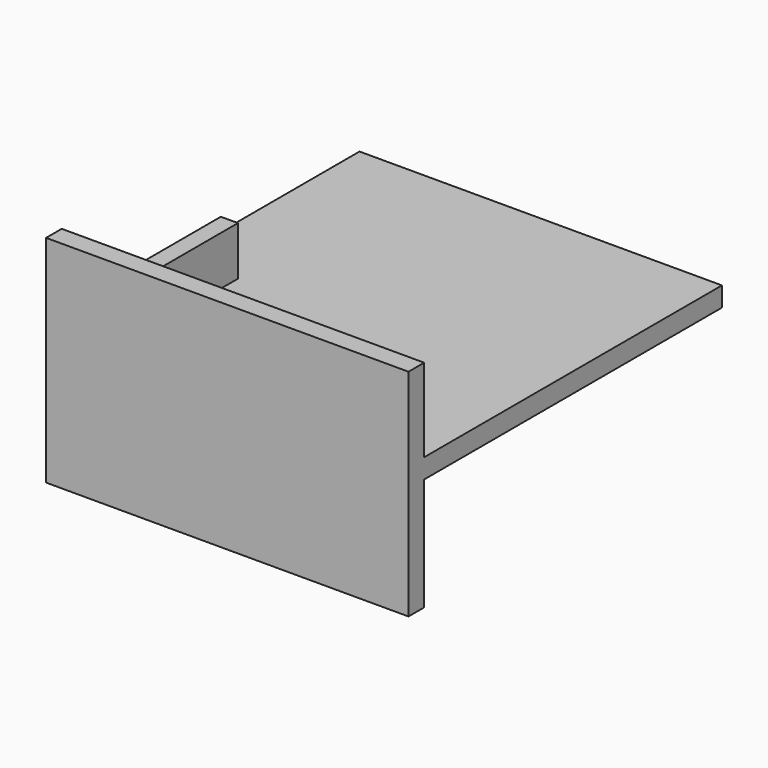
from build123d import *

# Parameters (mm, degrees)
SKETCH024_W  = 37
SKETCH024_H  = 22
PAD013_DEPTH = 2
SKETCH025_W  = 37
SKETCH025_H  = 2
PAD014_DEPTH = 38
SKETCH027_W  = 1.75
SKETCH027_H  = 12
PAD015_DEPTH = 5


with BuildPart() as part:
    # Sketch024 → Pad013 (new body)
    with BuildSketch(Plane.XZ.offset(7.3)):
        with Locations((-3.25, -29.610007)):
            Rectangle(SKETCH024_W, SKETCH024_H)
    extrude(amount=PAD013_DEPTH)

    # Sketch025 (on Face5 of Pad013) → Pad014 (join)
    with BuildSketch(Plane(origin=(0, -7.3, 0), x_dir=(1, 0, 0), z_dir=(0, 1, 0))):
        with Locations((-3.25, 28.110007)):
            Rectangle(SKETCH025_W, SKETCH025_H)
    extrude(amount=PAD014_DEPTH)

    # Sketch027 (on Face6 of Pad014) → Pad015 (join)
    with BuildSketch(Plane(origin=(0, 0, -27.110007), x_dir=(-1, 0, 0), z_dir=(0, 0, 1))):
        with Locations((16.475, -1.5)):
            Rectangle(SKETCH027_W, SKETCH027_H)
    extrude(amount=PAD015_DEPTH)


solid = part.part
